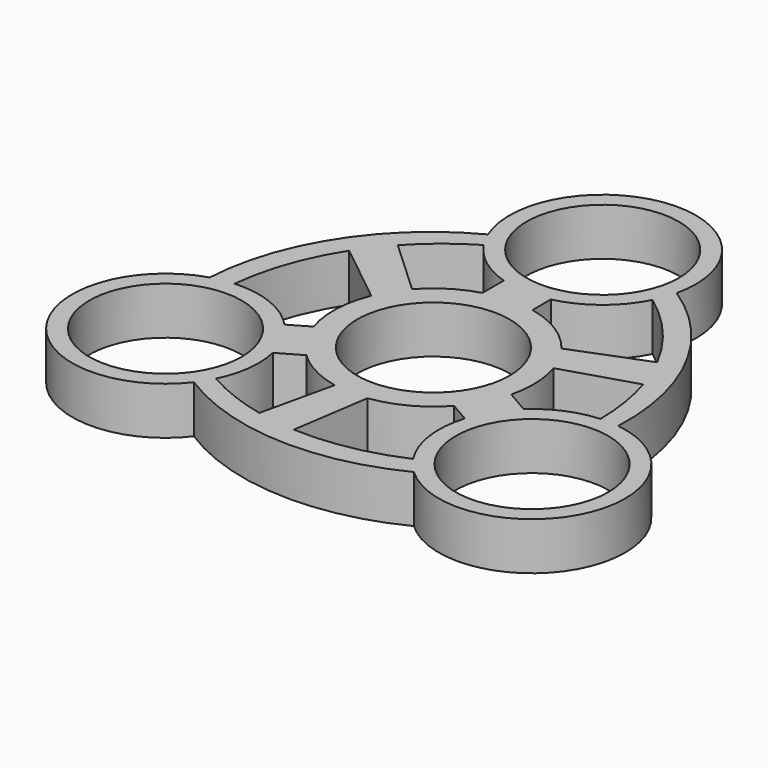
from build123d import *

# Parameters (mm, degrees)
F0_R     = 11.2
F1_DEPTH = 7


with BuildPart() as f1:
    # F0 (on Top) → F1 (new body)
    with BuildSketch(Plane.XY):
        with BuildLine():
            ThreePointArc((28.730647, -1.967929), (24.998872, 15.05066), (13.345615, 28.002883))
            ThreePointArc((13.345615, 28.002883), (-1.122199, 44.752739), (-12.661047, 25.865434))
            ThreePointArc((-12.661047, 25.865434), (-25.533689, 14.124328), (-30.924015, -2.4438))
            ThreePointArc((-30.924015, -2.4438), (-38.19591, -23.348222), (-16.069599, -23.897506))
            ThreePointArc((-16.069599, -23.897506), (0.534818, -29.174988), (17.578401, -25.559083))
            ThreePointArc((17.578401, -25.559083), (39.318108, -21.404517), (28.730647, -1.967929))
        make_face()
        with Locations((-26.932331, -15.549389)):
            Circle(F0_R, mode=Mode.SUBTRACT)
        with BuildLine():
            ThreePointArc((-14.652825, -21.624233), (-13.329494, -17.178136), (-13.565752, -12.5453))
            Line((-13.565752, -12.5453), (-10.189146, -10.595816))
            ThreePointArc((-10.189146, -10.595816), (-6.862099, -13.000061), (-2.99998, -14.390626))
            Line((-2.99998, -14.390626), (-5.445327, -25.172677))
            ThreePointArc((-5.445327, -25.172677), (-10.18074, -23.740096), (-14.652825, -21.624233))
        make_face(mode=Mode.SUBTRACT)
        with BuildLine():
            Line((-22.583399, 12.76018), (-13.599056, 5.581727))
            ThreePointArc((-13.599056, 5.581727), (-14.689484, 0.555925), (-13.982035, -4.537918))
            Line((-13.982035, -4.537918), (-16.898266, -6.221605))
            ThreePointArc((-16.898266, -6.221605), (-21.821162, -2.838529), (-27.715698, -1.871804))
            ThreePointArc((-27.715698, -1.871804), (-26.009744, 5.745909), (-22.583399, 12.76018))
        make_face(mode=Mode.SUBTRACT)
        with BuildLine():
            Line((10.92097, -9.839838), (13.837202, -11.523525))
            ThreePointArc((13.837202, -11.523525), (13.368819, -17.478416), (15.478878, -23.066597))
            ThreePointArc((15.478878, -23.066597), (8.028769, -25.398054), (0.24106, -25.937887))
            Line((0.24106, -25.937887), (1.96561, -14.567991))
            ThreePointArc((1.96561, -14.567991), (6.863297, -12.999429), (10.92097, -9.839838))
        make_face(mode=Mode.SUBTRACT)
        with Locations((26.932331, -15.549389)):
            Circle(F0_R, mode=Mode.SUBTRACT)
        Circle(F0_R, mode=Mode.SUBTRACT)
        with BuildLine():
            ThreePointArc((24.522842, 7.870547), (25.649896, 3.053268), (26.053548, -1.877602))
            ThreePointArc((26.053548, -1.877602), (21.541449, -2.954613), (17.647424, -5.475636))
            Line((17.647424, -5.475636), (14.270818, -3.526151))
            ThreePointArc((14.270818, -3.526151), (14.689433, 0.557278), (13.962638, 4.597254))
            Line((13.962638, 4.597254), (24.522842, 7.870547))
        make_face(mode=Mode.SUBTRACT)
        with BuildLine():
            ThreePointArc((-11.400722, 23.501835), (-8.211955, 20.132748), (-4.081673, 18.020936))
            Line((-4.081673, 18.020936), (-4.081673, 14.121967))
            ThreePointArc((-4.081673, 14.121967), (-7.827334, 12.442783), (-10.962658, 9.793372))
            Line((-10.962658, 9.793372), (-19.077514, 17.30213))
            ThreePointArc((-19.077514, 17.30213), (-15.469156, 20.686828), (-11.400722, 23.501835))
        make_face(mode=Mode.SUBTRACT)
        with BuildLine():
            Line((22.342339, 13.177708), (11.633445, 8.986264))
            ThreePointArc((11.633445, 8.986264), (7.826187, 12.443504), (3.061065, 14.377757))
            Line((3.061065, 14.377757), (3.061065, 17.745131))
            ThreePointArc((3.061065, 17.745131), (8.452343, 20.316945), (12.23682, 24.9384))
            ThreePointArc((12.23682, 24.9384), (17.980976, 19.652144), (22.342339, 13.177708))
        make_face(mode=Mode.SUBTRACT)
        with Locations((0, 31.098777)):
            Circle(F0_R, mode=Mode.SUBTRACT)
    extrude(amount=F1_DEPTH)


solid = f1.part
